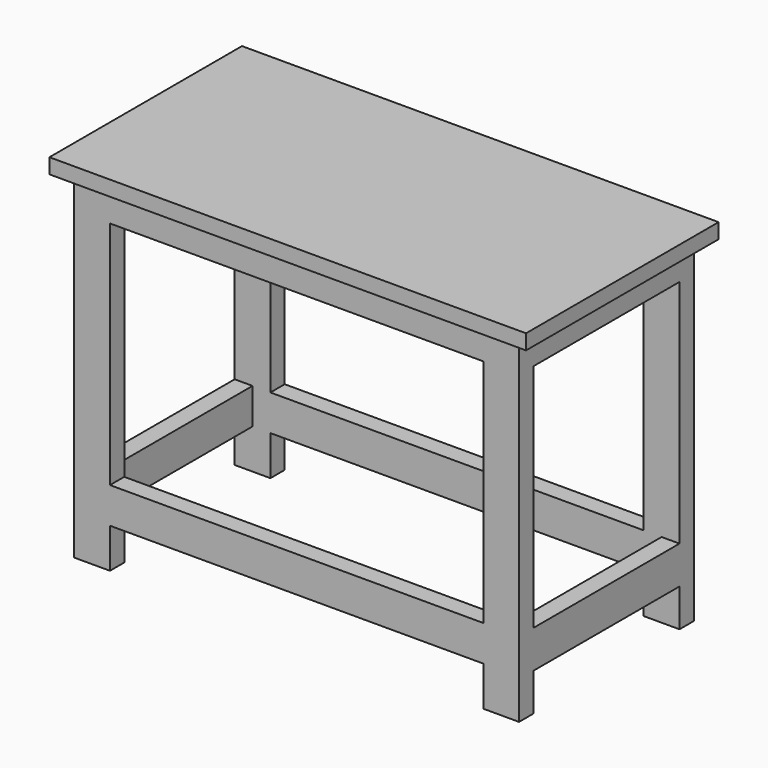
from build123d import *

# Parameters (mm, degrees)
F0_W      = 940
F0_H      = 90
F1_DEPTH  = 45
F3_W      = 45
F3_H      = 90
F3_H_2    = 95
F4_DEPTH  = 460
F6_W      = 940
F6_H      = 90
F7_DEPTH  = 45
F8_W      = 1200
F8_H      = 606
F9_DEPTH  = 19
F11_W     = 1200
F11_H     = 606
F12_DEPTH = 19


with BuildPart() as f1:
    # F0 (on Front) → F1 (new body)
    with BuildSketch(Plane.XZ):
        with Locations((39.816496, -32.848117)):
            Rectangle(F0_W, F0_H)
        Polygon((-430.183504, -77.848117), (-430.183504, 12.151883), (-520.183504, 12.151883), (-520.183504, -847.848117), (-430.183504, -847.848117), (-430.183504, -747.848117), (-430.183504, -657.848117), align=None)
        Polygon((599.816496, 12.151883), (509.816496, 12.151883), (509.816496, -77.848117), (509.816496, -657.848117), (509.816496, -747.848117), (509.816496, -847.848117), (599.816496, -847.848117), align=None)
        with Locations((39.816496, -702.848117)):
            Rectangle(F0_W, F0_H)
    extrude(amount=F1_DEPTH)

    # F3 (on offset) → F4 (join)
    with BuildSketch(Plane.XZ.offset(45)):
        with Locations((-497.683504, -32.848117)):
            Rectangle(F3_W, F3_H)
        with Locations((577.316496, -32.848117)):
            Rectangle(F3_W, F3_H)
        with Locations((577.316496, -705.348117)):
            Rectangle(F3_W, F3_H_2)
        with Locations((-497.683504, -702.848117)):
            Rectangle(F3_W, F3_H)
    extrude(amount=F4_DEPTH)

    # F6 (on offset) → F7 (join)
    with BuildSketch(Plane.XZ.offset(505)):
        with Locations((39.816496, -32.848117)):
            Rectangle(F6_W, F6_H)
        Polygon((-430.183504, -77.848117), (-430.183504, 12.151883), (-520.183504, 12.151883), (-520.183504, -847.848117), (-430.183504, -847.848117), (-430.183504, -747.848117), (-430.183504, -657.848117), align=None)
        Polygon((599.816496, 12.151883), (509.816496, 12.151883), (509.816496, -77.848117), (509.816496, -657.848117), (509.816496, -747.848117), (509.816496, -847.848117), (599.816496, -847.848117), align=None)
        with Locations((39.816496, -702.848117)):
            Rectangle(F6_W, F6_H)
    extrude(amount=F7_DEPTH)

    # F8 (on Top) → F9 (join)
    with BuildSketch(Plane.XY):
        with Locations((39.816496, -275)):
            Rectangle(F8_W, F8_H)
    extrude(amount=F9_DEPTH)

    # F11 (on offset) → F12 (join)
    with BuildSketch(Plane.XY.offset(19)):
        with Locations((39.816496, -275)):
            Rectangle(F11_W, F11_H)
    extrude(amount=F12_DEPTH)


solid = f1.part
